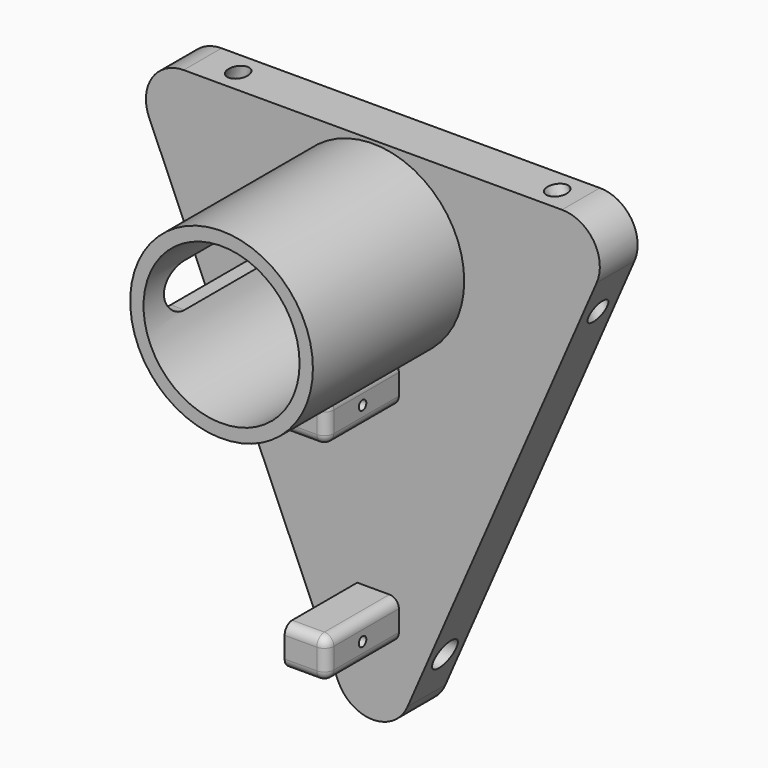
from build123d import *

# Parameters (mm, degrees)
F0_R      = 10.4775
F1_DEPTH  = 6.35
F2_R      = 1.905
F3_DEPTH  = 9.0678
F5_DEPTH  = 12.192
F6_R      = 0.635
F7_R      = 0.635
F8_DEPTH  = 32.5765
F9_R      = 1.27
F10_R     = 12.2682
F10_R_2   = 10.4775
F11_DEPTH = 25.4
F13_DEPTH = 12.7
F14_R     = 1.5875
F16_R     = 1.5875


with BuildPart() as f1:
    # F0 (on Front) → F1 (new body)
    with BuildSketch(Plane.XZ):
        with BuildLine():
            ThreePointArc((-4.6582808724, -27.3922420853), (0, -30.4457132023), (4.6582808724, -27.3922420853))
            Line((4.6582808724, -27.3922420853), (30.0582808724, 30.993471117))
            ThreePointArc((30.0582808724, 30.993471117), (29.6485978114, 35.8049266843), (25.4, 38.1))
            Line((25.4, 38.1), (0, 38.1))
            Line((0, 38.1), (-25.4, 38.1))
            ThreePointArc((-25.4, 38.1), (-29.6485978114, 35.8049266843), (-30.0582808724, 30.993471117))
            Line((-30.0582808724, 30.993471117), (-4.6582808724, -27.3922420853))
        make_face()
        with Locations((0, 25.4)):
            Circle(F0_R, mode=Mode.SUBTRACT)
    extrude(amount=F1_DEPTH)

    # F2 (on Right) → F3 (cut, symmetric)
    with BuildSketch(Plane.YZ):
        with Locations((-3.175, -21.6772420853)):
            Circle(F2_R)
    extrude(amount=F3_DEPTH, both=True, mode=Mode.SUBTRACT)

    # F4 (on face) → F5 (join)
    with BuildSketch(Plane.XZ.offset(6.35)):
        with BuildLine():
            Line((2.2225, 13.0175), (-2.0955, 13.0175))
            Line((-2.0955, 13.0175), (-2.0955, 7.6835))
            Line((-2.0955, 7.6835), (2.2225, 7.6835))
            ThreePointArc((2.2225, 7.6835), (3.1205256121, 8.0554743879), (3.4925, 8.9535))
            Line((3.4925, 8.9535), (3.4925, 11.7475))
            ThreePointArc((3.4925, 11.7475), (3.1205256121, 12.6455256121), (2.2225, 13.0175))
        make_face()
        with BuildLine():
            Line((2.2225, -14.9225), (-2.0955, -14.9225))
            Line((-2.0955, -14.9225), (-2.0955, -20.2565))
            Line((-2.0955, -20.2565), (2.2225, -20.2565))
            ThreePointArc((2.2225, -20.2565), (3.1205256121, -19.8845256121), (3.4925, -18.9865))
            Line((3.4925, -18.9865), (3.4925, -16.1925))
            ThreePointArc((3.4925, -16.1925), (3.1205256121, -15.2944743879), (2.2225, -14.9225))
        make_face()
    extrude(amount=F5_DEPTH)

    # F6 (on face) + F7 (on face) → F8 (cut, through all)
    with BuildSketch(Plane(origin=(-2.0955, 0, 0), x_dir=(0, -1, 0), z_dir=(-1, 0, 0))):
        with Locations((12.446, -17.5895)):
            Circle(F6_R)
    with BuildSketch(Plane(origin=(-2.0955, 0, 0), x_dir=(0, -1, 0), z_dir=(-1, 0, 0))):
        with Locations((12.446, 10.3505)):
            Circle(F7_R)
    extrude(amount=-F8_DEPTH, mode=Mode.SUBTRACT)

    # F9
    f9_edges = [f1.edges().sort_by_distance(p)[0] for p in [
        (0.0635, -18.542, 13.0175),
        (3.120526, -18.542, 12.645526),
        (3.4925, -18.542, 10.3505),
        (3.120526, -18.542, 8.055474),
        (0.0635, -18.542, 7.6835),
        (0.0635, -18.542, -20.2565),
        (3.4925, -18.542, -17.5895),
        (3.120526, -18.542, -15.294474),
        (0.0635, -18.542, -14.9225),
    ]]
    fillet(f9_edges, radius=F9_R)

    # F10 (on face) → F11 (join)
    with BuildSketch(Plane.XZ.offset(6.35)):
        with Locations((0, 25.4)):
            Circle(F10_R)
        with Locations((0, 25.4)):
            Circle(F10_R_2, mode=Mode.SUBTRACT)
    extrude(amount=F11_DEPTH)

    # F12 (on Right) → F13 (cut)
    with BuildSketch(Plane.YZ):
        with BuildLine():
            Line((-25.4, 22.4685867739), (-12.7, 22.4685867739))
            ThreePointArc((-12.7, 22.4685867739), (-9.7685867739, 25.4), (-12.7, 28.3314132261))
            Line((-12.7, 28.3314132261), (-25.4, 28.3314132261))
            ThreePointArc((-25.4, 28.3314132261), (-28.3314132261, 25.4), (-25.4, 22.4685867739))
        make_face()
    extrude(amount=-F13_DEPTH, mode=Mode.SUBTRACT)

    # F15: sweep along a path in F15_path
    with BuildLine(Plane(origin=(30.0582808724, -6.35, 30.993471117), x_dir=(0.3989230085, 0, 0.9169844237), z_dir=(0.9169844237, 0, -0.3989230085))) as f15_path:
        Line((0, 0), (-63.6714339884, 0))
    # F14 (on face) → F15 (sweep, cut)
    with BuildSketch(Plane(origin=(-13.9372156493, 0, -6.0632174906), x_dir=(0, -1, 0), z_dir=(-0.9169844237, 0, -0.3989230085))):
        with Locations((3.175, 32.4612700858)):
            Circle(F14_R)
    sweep(path=f15_path.line, mode=Mode.SUBTRACT)

    # F17: sweep along a path in F17_path
    with BuildLine(Plane(origin=(-4.6582808724, -6.35, -27.3922420853), x_dir=(0.3989230085, 0, -0.9169844237), z_dir=(-0.9169844237, 0, -0.3989230085))) as f17_path:
        Line((0, 0), (-63.6714339884, 0))
    # F16 (on face) → F17 (sweep, cut)
    with BuildSketch(Plane(origin=(13.9372156493, 0, -6.0632174906), x_dir=(0, 1, 0), z_dir=(0.9169844237, 0, -0.3989230085))):
        with Locations((-3.175, 34.4638973475)):
            Circle(F16_R)
    sweep(path=f17_path.line, mode=Mode.SUBTRACT)


solid = f1.part
